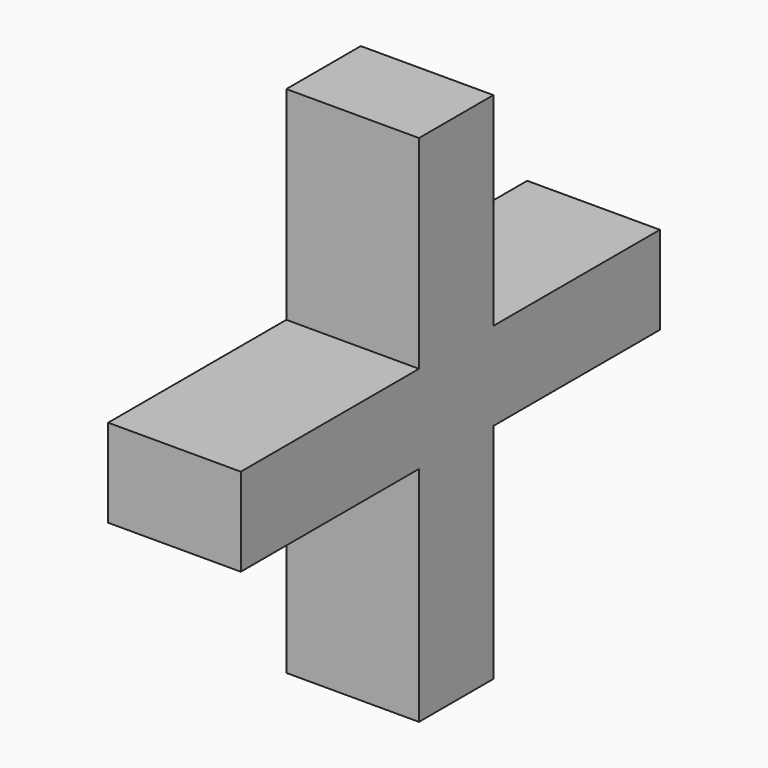
from build123d import *

# Parameters (mm, degrees)
F0_W     = 6.2338649295
F0_H     = 13.6160724796
F0_H_2   = 5.9057665057
F0_W_2   = 14.9295842275
F0_W_3   = 13.9456405304
F0_H_3   = 14.9284666404
F1_DEPTH = 8.89


with BuildPart() as f1:
    # F0 (on Right) → F1 (new body)
    with BuildSketch(Plane.YZ):
        with Locations((0.2417115029, 9.6678200644)):
            Rectangle(F0_W, F0_H)
        with Locations((0.2417115029, -0.0930994283)):
            Rectangle(F0_W, F0_H_2)
        with Locations((-10.3400130756, -0.0930994283)):
            Rectangle(F0_W_2, F0_H_2)
        with Locations((10.3314642329, -0.0930994283)):
            Rectangle(F0_W_3, F0_H_2)
        with Locations((0.2417115029, -10.5102160014)):
            Rectangle(F0_W, F0_H_3)
    extrude(amount=F1_DEPTH)


solid = f1.part
